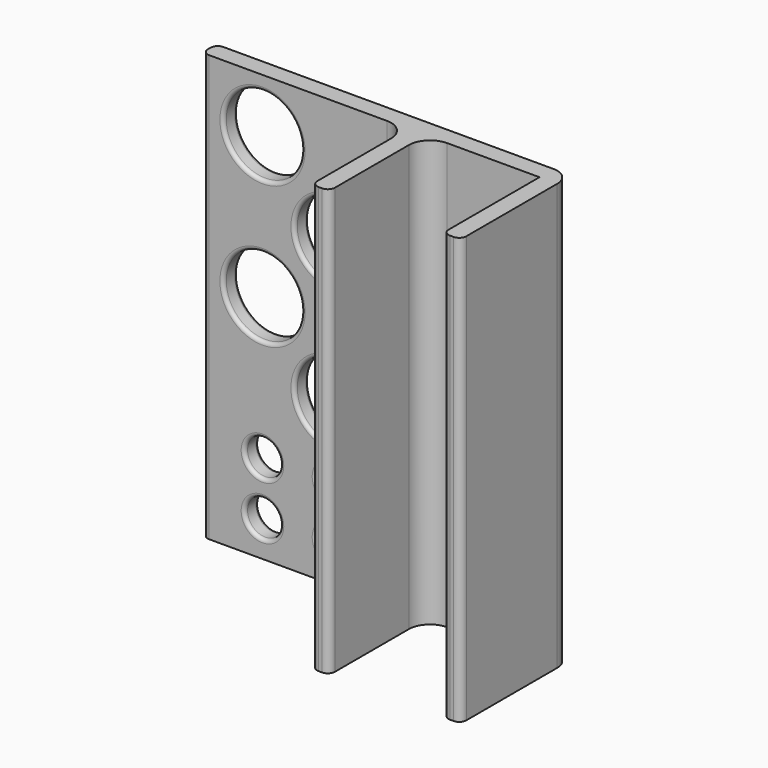
from build123d import *

# Parameters (mm, degrees)
F1_DEPTH = 76.2
F2_R     = 3.175
F2_R_2   = 6.985
F3_DEPTH = 25.4
F4_R     = 0.635


with BuildPart() as f1:
    # F0 (on Top) → F1 (new body)
    with BuildSketch(Plane.XY):
        with BuildLine():
            ThreePointArc((31.75, -1.5875), (30.8200640303, 0.6575640303), (28.575, 1.5875))
            Line((28.575, 1.5875), (-30.48, 1.5875))
            ThreePointArc((-30.48, 1.5875), (-31.3780256121, 1.2155256121), (-31.75, 0.3175))
            Line((-31.75, 0.3175), (-31.75, -0.3175))
            ThreePointArc((-31.75, -0.3175), (-31.3780256121, -1.2155256121), (-30.48, -1.5875))
            Line((-30.48, -1.5875), (1.27, -1.5875))
            ThreePointArc((1.27, -1.5875), (3.9640768363, -2.7034231637), (5.08, -5.3975))
            Line((5.08, -5.3975), (5.08, -21.9075))
            ThreePointArc((5.08, -21.9075), (5.4519743879, -22.8055256121), (6.35, -23.1775))
            Line((6.35, -23.1775), (6.985, -23.1775))
            ThreePointArc((6.985, -23.1775), (7.8830256121, -22.8055256121), (8.255, -21.9075))
            Line((8.255, -21.9075), (8.255, -5.3975))
            ThreePointArc((8.255, -5.3975), (9.3709231637, -2.7034231637), (12.065, -1.5875))
            Line((12.065, -1.5875), (28.575, -1.5875))
            Line((28.575, -1.5875), (28.575, -21.9075))
            ThreePointArc((28.575, -21.9075), (28.9469743879, -22.8055256121), (29.845, -23.1775))
            Line((29.845, -23.1775), (30.48, -23.1775))
            ThreePointArc((30.48, -23.1775), (31.3780256121, -22.8055256121), (31.75, -21.9075))
            Line((31.75, -21.9075), (31.75, -1.5875))
        make_face()
    extrude(amount=F1_DEPTH)

    # F2 (on face) → F3 (cut)
    with BuildSketch(Plane.XZ.offset(1.5875)):
        with Locations((-20.955, 15.875)):
            Circle(F2_R)
        with Locations((-8.255, 15.875)):
            Circle(F2_R)
        with Locations((-20.955, 6.35)):
            Circle(F2_R)
        with Locations((-8.255, 6.35)):
            Circle(F2_R)
        with Locations((-8.255, 28.575)):
            Circle(F2_R_2)
        with Locations((-20.955, 41.275)):
            Circle(F2_R_2)
        with Locations((-8.255, 53.975)):
            Circle(F2_R_2)
        with Locations((-20.955, 66.675)):
            Circle(F2_R_2)
    extrude(amount=-F3_DEPTH, mode=Mode.SUBTRACT)

    # F4
    f4_edges = [f1.edges().sort_by_distance(p)[0] for p in [
        (-27.94, -1.5875, 66.675),
        (-15.24, -1.5875, 53.975),
        (-27.94, -1.5875, 41.275),
        (-15.24, -1.5875, 28.575),
        (-11.43, -1.5875, 15.875),
        (-11.43, -1.5875, 6.35),
        (-24.13, -1.5875, 6.35),
        (-24.13, -1.5875, 15.875),
        (-11.43, 1.5875, 6.35),
        (-24.13, 1.5875, 6.35),
        (-24.13, 1.5875, 15.875),
        (-15.24, 1.5875, 28.575),
        (-27.94, 1.5875, 41.275),
        (-15.24, 1.5875, 53.975),
        (-27.94, 1.5875, 66.675),
        (-11.43, 1.5875, 15.875),
    ]]
    fillet(f4_edges, radius=F4_R)


solid = f1.part
